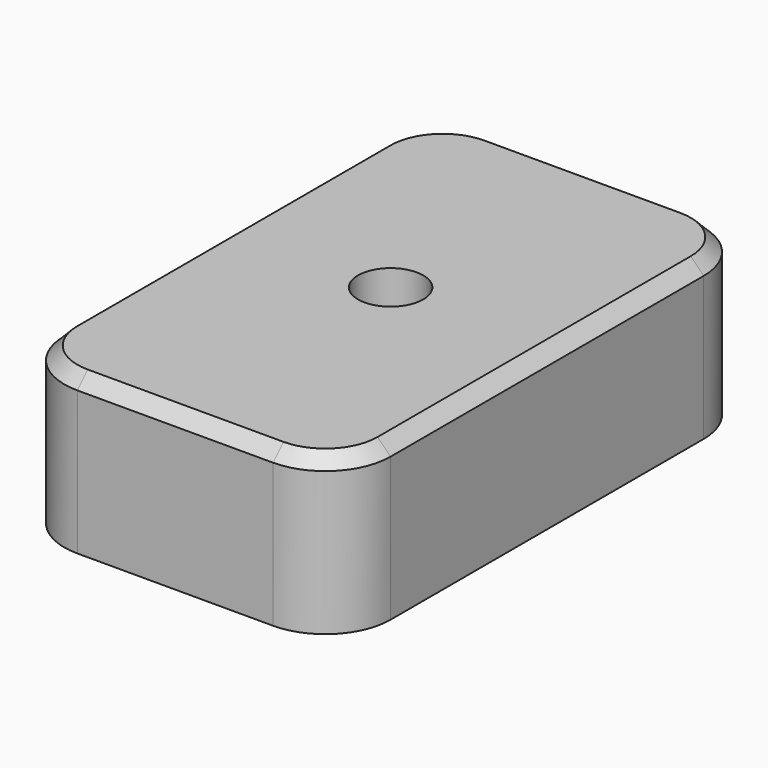
from build123d import *

# Parameters (mm, degrees)
F0_W     = 25
F0_H     = 40
F1_DEPTH = 12
F2_R     = 2.5
F3_DEPTH = 123.8
F4_R     = 5
F5_R     = 5
F6_R     = 5
F7_R     = 5
F8_SIZE  = 1


with BuildPart() as f1:
    # F0 (on Top) → F1 (new body)
    with BuildSketch(Plane.XY):
        Rectangle(F0_W, F0_H)
    extrude(amount=F1_DEPTH)

    # F2 (on face) → F3 (cut)
    with BuildSketch(Plane(origin=(0, 0, 0), x_dir=(1, 0, 0), z_dir=(0, 0, -1))):
        with Locations((0, -0.633842)):
            Circle(F2_R)
    extrude(amount=-F3_DEPTH, mode=Mode.SUBTRACT)

    # F4
    f4_edges = [f1.edges().sort_by_distance(p)[0] for p in [
        (-12.5, -20, 6),
    ]]
    fillet(f4_edges, radius=F4_R)

    # F5
    f5_edges = [f1.edges().sort_by_distance(p)[0] for p in [
        (12.5, -20, 6),
    ]]
    fillet(f5_edges, radius=F5_R)

    # F6
    f6_edges = [f1.edges().sort_by_distance(p)[0] for p in [
        (-12.5, 20, 6),
    ]]
    fillet(f6_edges, radius=F6_R)

    # F7
    f7_edges = [f1.edges().sort_by_distance(p)[0] for p in [
        (12.5, 20, 6),
    ]]
    fillet(f7_edges, radius=F7_R)

    # F8
    f8_edges = [f1.edges().sort_by_distance(p)[0] for p in [
        (0, 20, 12),
    ]]
    chamfer(f8_edges, length=F8_SIZE)


solid = f1.part
